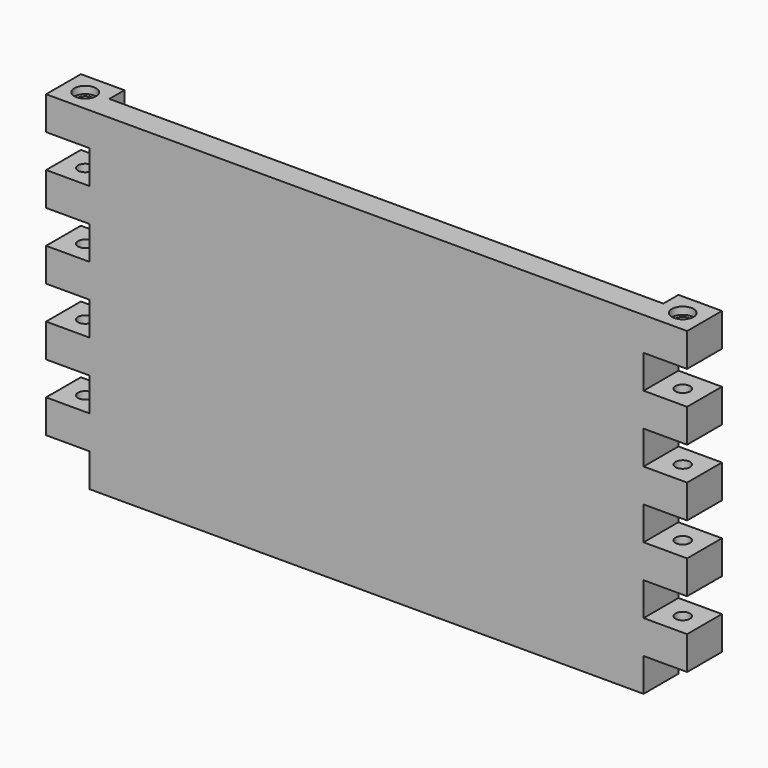
from build123d import *

# Parameters (mm, degrees)
F1_DEPTH       = 30
F3_D           = 10
F3_CBORE_D     = 15
F3_CBORE_DEPTH = 5
F2_W           = 382
F2_H           = 13
F4_DEPTH       = 18


with BuildPart() as f1:
    # F0 (on Front) → F1 (new body)
    with BuildSketch(Plane.XZ):
        Polygon((221, 92), (221, 115), (-221, 115), (-221, 92), (-191, 92), (-191, 69), (-221, 69), (-221, 46), (-191, 46), (-191, 23), (-221, 23), (-221, 0), (-191, 0), (-191, -23), (-221, -23), (-221, -46), (-191, -46), (-191, -69), (-221, -69), (-221, -92), (-191, -92), (-191, -115), (191, -115), (191, -92), (221, -92), (221, -69), (191, -69), (191, -46), (221, -46), (221, -23), (191, -23), (191, 0), (221, 0), (221, 23), (191, 23), (191, 46), (221, 46), (221, 69), (191, 69), (191, 92), align=None)
    extrude(amount=F1_DEPTH)

    # F3 (through all)
    with Locations(Plane.XY.offset(115)):
        with Locations((-206, -15), (206, -15)):
            CounterBoreHole(F3_D / 2, F3_CBORE_D / 2, F3_CBORE_DEPTH)

    # F2 (on face) → F4 (cut)
    with BuildSketch(Plane.XY.offset(115)):
        with Locations((0, -6.5)):
            Rectangle(F2_W, F2_H)
    extrude(amount=-F4_DEPTH, mode=Mode.SUBTRACT)


solid = f1.part
